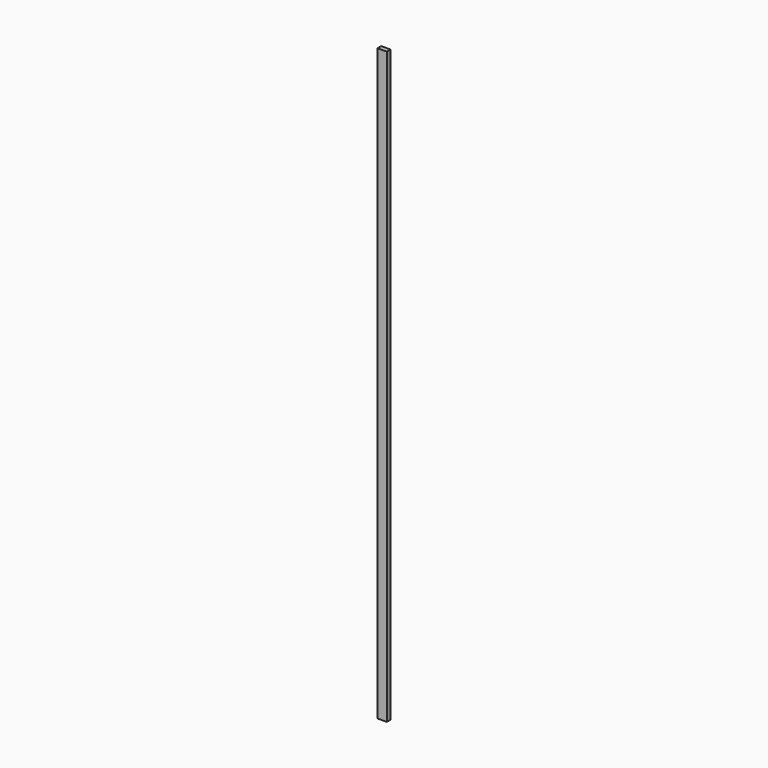
from build123d import *

# Parameters (mm, degrees)
SKETCH_W  = 38.1
SKETCH_H  = 19.05
PAD_DEPTH = 2438.4


with BuildPart() as part:
    # Sketch → Pad (new body)
    with BuildSketch(Plane.XY):
        Rectangle(SKETCH_W, SKETCH_H)
    extrude(amount=PAD_DEPTH)


solid = part.part
